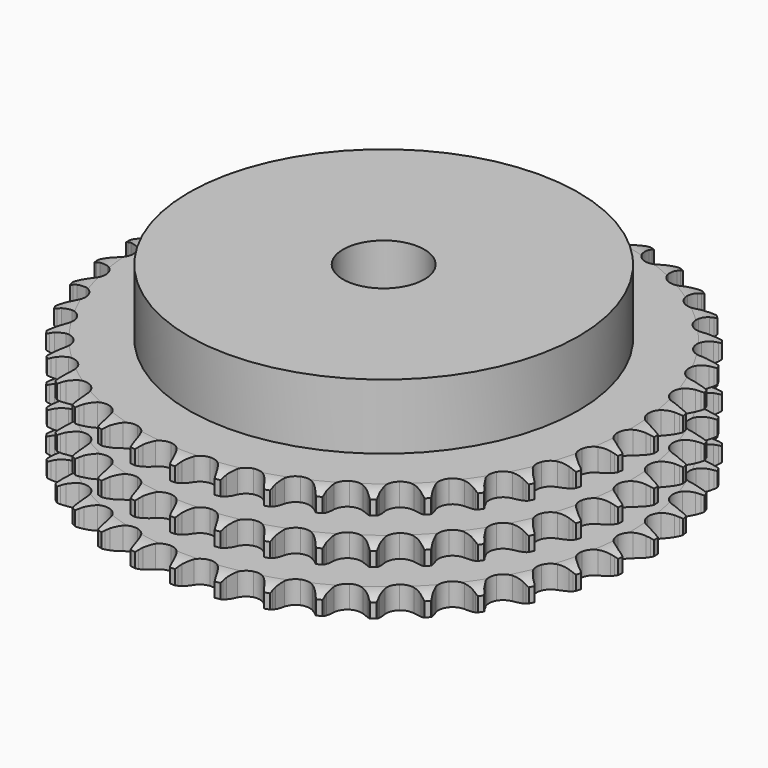
from build123d import *

# Parameters (mm, degrees)
PAD_DEPTH         = 34.9
SKETCH001_R       = 60
PAD001_DEPTH      = 55
SKETCH002_R       = 12.5
POCKET_DEPTH      = 0.001
POCKET_DEPTH_BACK = 55.001


with BuildPart() as part:
    # Sprocket → Pad (new body)
    with BuildSketch(Plane.XY):
        with BuildLine():
            ThreePointArc((-6.656622, 82.457062), (-5.929777, 81.440918), (-5.398329, 80.310249))
            Line((-5.398329, 80.310249), (-4.983377, 79.168588))
            ThreePointArc((-4.983377, 79.168588), (-4.32707, 77.702452), (-3.466416, 76.346144))
            ThreePointArc((-3.466416, 76.346144), (-1.9406, 75.061463), (0, 74.600386))
            ThreePointArc((0, 74.600386), (1.9406, 75.061463), (3.466416, 76.346144))
            ThreePointArc((3.466416, 76.346144), (4.32707, 77.702452), (4.983377, 79.168588))
            Line((4.983377, 79.168588), (5.398329, 80.310249))
            ThreePointArc((5.398329, 80.310249), (5.929777, 81.440918), (6.656622, 82.457062))
            ThreePointArc((6.656622, 82.457062), (7.211054, 81.337483), (7.554248, 80.136205))
            Line((7.554248, 80.136205), (7.780691, 78.942766))
            ThreePointArc((7.780691, 78.942766), (8.193314, 77.390336), (8.825256, 75.913534))
            ThreePointArc((8.825256, 75.913534), (10.125235, 74.400731), (11.966743, 73.63433))
            ThreePointArc((11.966743, 73.63433), (13.956175, 73.778143), (15.66831, 74.80143))
            Line((15.66831, 74.80143), (17.618378, 77.343986))
            ThreePointArc((17.618378, 77.343986), (17.900249, 77.88224), (18.211092, 78.404299))
            ThreePointArc((18.211092, 78.404299), (18.91703, 79.435077), (19.797464, 80.321468))
            ThreePointArc((19.797464, 80.321468), (20.165122, 79.12745), (20.311173, 77.886676))
            Line((20.311173, 77.886676), (20.343243, 76.672367))
            ThreePointArc((20.343243, 76.672367), (20.501496, 75.073852), (20.888358, 73.514803))
            ThreePointArc((20.888358, 73.514803), (21.928833, 71.813059), (23.623554, 70.761184))
            ThreePointArc((23.623554, 70.761184), (25.610293, 70.584007), (27.464403, 71.319397))
            Line((27.464403, 71.319397), (29.797073, 73.516215))
            ThreePointArc((29.797073, 73.516215), (30.161635, 74.002284), (30.552197, 74.467719))
            ThreePointArc((30.552197, 74.467719), (31.414342, 75.371908), (32.425561, 76.105589))
            ThreePointArc((32.425561, 76.105589), (32.596925, 74.868057), (32.54205, 73.619922))
            Line((32.54205, 73.619922), (32.378916, 72.416194))
            ThreePointArc((32.378916, 72.416194), (32.2787, 70.812994), (32.410463, 69.212078))
            ThreePointArc((32.410463, 69.212078), (33.164485, 67.365467), (34.668528, 66.055361))
            ThreePointArc((34.668528, 66.055361), (36.601117, 65.561783), (38.549182, 65.99023))
            Line((38.549182, 65.99023), (41.204039, 67.784413))
            ThreePointArc((41.204039, 67.784413), (41.641851, 68.205707), (42.102016, 68.602465))
            ThreePointArc((42.102016, 68.602465), (43.098039, 69.356647), (44.213854, 69.918616))
            ThreePointArc((44.213854, 69.918616), (44.184484, 68.669621), (43.930105, 67.446452))
            Line((43.930105, 67.446452), (43.575992, 66.28448))
            ThreePointArc((43.575992, 66.28448), (43.219902, 64.718117), (43.093154, 63.116796))
            ThreePointArc((43.093154, 63.116796), (43.541194, 61.173144), (44.815605, 59.638738))
            ThreePointArc((44.815605, 59.638738), (46.643992, 58.841543), (48.635557, 58.95195))
            Line((48.635557, 58.95195), (51.543842, 60.29703))
            ThreePointArc((51.543842, 60.29703), (52.043565, 60.642638), (52.561416, 60.960443))
            ThreePointArc((52.561416, 60.960443), (53.665519, 61.545085), (54.857031, 61.920787))
            ThreePointArc((54.857031, 61.920787), (54.627688, 60.692678), (54.180394, 59.526153))
            Line((54.180394, 59.526153), (53.644473, 58.436033))
            ThreePointArc((53.644473, 58.436033), (53.041732, 56.947074), (52.659755, 55.386822))
            ThreePointArc((52.659755, 55.386822), (52.79021, 53.396469), (53.801981, 51.677504))
            ThreePointArc((53.801981, 51.677504), (55.478812, 50.597338), (57.462297, 50.386846))
            Line((57.462297, 50.386846), (60.548686, 51.247985))
            ThreePointArc((60.548686, 51.247985), (61.097378, 51.508957), (61.659502, 51.739577))
            ThreePointArc((61.659502, 51.739577), (62.843091, 52.139538), (64.079439, 52.319243))
            ThreePointArc((64.079439, 52.319243), (63.656064, 51.143826), (63.027438, 50.064159))
            Line((63.027438, 50.064159), (62.32359, 49.074123))
            ThreePointArc((62.32359, 49.074123), (61.489808, 47.701133), (60.862496, 46.222358))
            ThreePointArc((60.862496, 46.222358), (60.671986, 44.236854), (61.394914, 42.377849))
            ThreePointArc((61.394914, 42.377849), (62.87676, 41.042688), (64.800794, 40.516748))
            Line((64.800794, 40.516748), (67.985352, 40.871645))
            ThreePointArc((67.985352, 40.871645), (68.568801, 41.041221), (69.160639, 41.178683))
            ThreePointArc((69.160639, 41.178683), (70.393059, 41.383604), (71.642224, 41.362657))
            ThreePointArc((71.642224, 41.362657), (71.035782, 40.270376), (70.242105, 39.305529))
            Line((70.242105, 39.305529), (69.388559, 38.441219))
            ThreePointArc((69.388559, 38.441219), (68.345331, 37.219757), (67.48893, 35.86076))
            ThreePointArc((67.48893, 35.86076), (66.98239, 33.931527), (67.397751, 31.98063))
            ThreePointArc((67.397751, 31.98063), (68.646232, 30.425055), (70.460984, 29.597289))
            Line((70.460984, 29.597289), (73.661232, 29.436751))
            ThreePointArc((73.661232, 29.436751), (74.264328, 29.510539), (74.870553, 29.551283))
            ThreePointArc((74.870553, 29.551283), (76.119885, 29.555856), (77.349513, 29.334801))
            ThreePointArc((77.349513, 29.334801), (76.575709, 28.353944), (75.637539, 27.528907))
            Line((75.637539, 27.528907), (74.6564, 26.812708))
            ThreePointArc((74.6564, 26.812708), (73.430746, 25.774408), (72.367437, 24.570386))
            ThreePointArc((72.367437, 24.570386), (71.557986, 22.747392), (71.655021, 20.75513))
            ThreePointArc((71.655021, 20.75513), (72.637804, 19.019428), (74.296272, 17.911275))
            Line((74.296272, 17.911275), (77.429325, 17.23946))
            ThreePointArc((77.429325, 17.23946), (78.036447, 17.215549), (78.641358, 17.158521))
            ThreePointArc((78.641358, 17.158521), (79.875245, 16.962627), (81.05349, 16.547188))
            ThreePointArc((81.05349, 16.547188), (80.132367, 15.703161), (79.074, 15.0393))
            Line((79.074, 15.0393), (77.99068, 14.489762))
            ThreePointArc((77.99068, 14.489762), (76.614343, 13.661517), (75.371665, 12.643653))
            ThreePointArc((75.371665, 12.643653), (74.280267, 10.974111), (74.056465, 8.992083))
            ThreePointArc((74.056465, 8.992083), (74.748094, 7.121208), (76.207325, 5.761368))
            Line((76.207325, 5.761368), (79.19204, 4.595676))
            ThreePointArc((79.19204, 4.595676), (79.787464, 4.474686), (80.375393, 4.321362))
            ThreePointArc((80.375393, 4.321362), (81.561878, 3.930075), (82.658224, 3.331013))
            ThreePointArc((82.658224, 3.331013), (81.613638, 2.645673), (80.462486, 2.160183))
            Line((80.462486, 2.160183), (79.305043, 1.791538))
            ThreePointArc((79.305043, 1.791538), (77.813669, 1.194799), (76.423806, 0.389456))
            ThreePointArc((76.423806, 0.389456), (75.078728, -1.083394), (74.539884, -3.003855))
            ThreePointArc((74.539884, -3.003855), (74.922448, -4.961447), (76.144649, -6.537754))
            Line((76.144649, -6.537754), (78.903722, -8.167133))
            ThreePointArc((78.903722, -8.167133), (79.472028, -8.382069), (80.027748, -8.627719))
            ThreePointArc((80.027748, -8.627719), (81.136102, -9.204264), (82.122154, -9.971435))
            ThreePointArc((82.122154, -9.971435), (80.981158, -10.480336), (79.767035, -10.774881))
            Line((79.767035, -10.774881), (78.565446, -10.953085))
            ThreePointArc((78.565446, -10.953085), (76.997661, -11.302864), (75.496611, -11.874828))
            ThreePointArc((75.496611, -11.874828), (73.93269, -13.112839), (73.09276, -14.921994))
            ThreePointArc((73.09276, -14.921994), (73.15635, -16.915603), (74.109866, -18.667553))
            Line((74.109866, -18.667553), (76.571839, -20.718418))
            ThreePointArc((76.571839, -20.718418), (77.098307, -21.021734), (77.607426, -21.353346))
            ThreePointArc((77.607426, -21.353346), (78.608943, -22.100217), (79.459163, -23.015627))
            ThreePointArc((79.459163, -23.015627), (78.25131, -23.334909), (77.005661, -23.430881))
            Line((77.005661, -23.430881), (75.791046, -23.41403))
            ThreePointArc((75.791046, -23.41403), (74.187455, -23.507788), (72.614093, -23.83156))
            ThreePointArc((72.614093, -23.83156), (70.871833, -24.802669), (69.752572, -26.453661))
            ThreePointArc((69.752572, -26.453661), (69.495541, -28.431654), (70.155677, -30.313872))
            Line((70.155677, -30.313872), (72.256786, -32.733107))
            ThreePointArc((72.256786, -32.733107), (72.727781, -33.116946), (73.177113, -33.525932))
            ThreePointArc((73.177113, -33.525932), (74.045853, -34.423786), (74.738222, -35.463727))
            ThreePointArc((74.738222, -35.463727), (73.494793, -35.585121), (72.24988, -35.480034))
            Line((72.24988, -35.480034), (71.053697, -35.268563))
            ThreePointArc((71.053697, -35.268563), (69.455832, -35.103873), (67.850909, -35.171068))
            ThreePointArc((67.850909, -35.171068), (65.975434, -35.850122), (64.605829, -37.300193))
            ThreePointArc((64.605829, -37.300193), (64.034834, -39.211341), (64.384492, -41.175077))
            Line((64.384492, -41.175077), (66.07032, -43.900025))
            ThreePointArc((66.07032, -43.900025), (66.473644, -44.354447), (66.851551, -44.830214))
            ThreePointArc((66.851551, -44.830214), (67.565016, -45.855797), (68.081599, -46.993335))
            ThreePointArc((68.081599, -46.993335), (66.8348, -46.913697), (65.622865, -46.610273))
            Line((65.622865, -46.610273), (64.476095, -46.209659))
            ThreePointArc((64.476095, -46.209659), (62.92534, -45.790786), (61.330421, -45.599663))
            ThreePointArc((61.330421, -45.599663), (59.370305, -45.969077), (57.785829, -47.180669))
            ThreePointArc((57.785829, -47.180669), (56.915658, -48.975474), (56.945783, -50.969869))
            Line((56.945783, -50.969869), (58.172667, -53.929956))
            ThreePointArc((58.172667, -53.929956), (58.497874, -54.443191), (58.794569, -54.973418))
            ThreePointArc((58.794569, -54.973418), (59.334279, -56.100167), (59.661699, -57.30584))
            ThreePointArc((59.661699, -57.30584), (58.44382, -57.027233), (57.296253, -56.53333))
            Line((57.296253, -56.53333), (56.228596, -55.953949))
            ThreePointArc((56.228596, -55.953949), (54.765115, -55.291742), (53.221508, -54.84725))
            ThreePointArc((53.221508, -54.84725), (51.227517, -54.897456), (49.469206, -55.83919))
            ThreePointArc((49.469206, -55.83919), (48.322397, -57.471168), (48.032208, -59.444569))
            Line((48.032208, -59.444569), (48.768373, -62.56313))
            ThreePointArc((48.768373, -62.56313), (49.00704, -63.121884), (49.214838, -63.692839))
            ThreePointArc((49.214838, -63.692839), (49.566816, -64.891573), (49.696593, -66.134154))
            ThreePointArc((49.696593, -66.134154), (48.539177, -65.663793), (47.485698, -64.992203))
            Line((47.485698, -64.992203), (46.524806, -64.249061))
            ThreePointArc((46.524806, -64.249061), (45.186502, -63.360671), (43.734186, -62.674323))
            ThreePointArc((43.734186, -62.674323), (41.757963, -62.40402), (39.871357, -63.051506))
            ThreePointArc((39.871357, -63.051506), (38.477611, -64.478389), (37.874624, -66.379685))
            Line((37.874624, -66.379685), (38.101004, -69.575951))
            ThreePointArc((38.101004, -69.575951), (38.246949, -70.165755), (38.360469, -70.762648))
            ThreePointArc((38.360469, -70.762648), (38.515599, -72.00232), (38.444371, -73.249628))
            ThreePointArc((38.444371, -73.249628), (37.377394, -72.599696), (36.445288, -71.767813))
            Line((36.445288, -71.767813), (35.616048, -70.880156))
            ThreePointArc((35.616048, -70.880156), (34.437582, -69.788591), (33.114171, -68.878164))
            ThreePointArc((33.114171, -68.878164), (31.206899, -68.294352), (29.24086, -68.630821))
            ThreePointArc((29.24086, -68.630821), (27.636275, -69.815653), (26.736108, -71.595603))
            Line((26.736108, -71.595603), (26.446839, -74.786791))
            ThreePointArc((26.446839, -74.786791), (26.496283, -75.392369), (26.512584, -75.999743))
            ThreePointArc((26.512584, -75.999743), (26.466847, -77.248246), (26.196459, -78.467976))
            ThreePointArc((26.196459, -78.467976), (25.247556, -77.655305), (24.460964, -76.684674))
            Line((24.460964, -76.684674), (23.784853, -75.675493))
            ThreePointArc((23.784853, -75.675493), (22.796747, -74.409024), (21.636517, -73.298096))
            ThreePointArc((21.636517, -73.298096), (19.847594, -72.415897), (17.853041, -72.432634))
            ThreePointArc((17.853041, -72.432634), (16.079174, -73.344729), (14.90514, -74.957232))
            Line((14.90514, -74.957232), (14.107714, -78.060693))
            ThreePointArc((14.107714, -78.060693), (14.059376, -78.66636), (13.978037, -79.268483))
            ThreePointArc((13.978037, -79.268483), (13.732619, -80.493482), (13.270074, -81.654044))
            ThreePointArc((13.270074, -81.654044), (12.46382, -80.699682), (11.843114, -79.615442))
            Line((11.843114, -79.615442), (11.337642, -78.510874))
            ThreePointArc((11.337642, -78.510874), (10.565489, -77.102302), (9.598488, -75.819647))
            ThreePointArc((9.598488, -75.819647), (7.974246, -74.661908), (6.002837, -74.358479))
            ThreePointArc((6.002837, -74.358479), (4.105631, -74.974215), (2.688136, -76.377508))
            Line((2.688136, -76.377508), (1.403207, -79.312864))
            ThreePointArc((1.403207, -79.312864), (1.25834, -79.902934), (1.081466, -80.484212))
            ThreePointArc((1.081466, -80.484212), (0.642722, -81.653979), (0, -82.725315))
            ThreePointArc((0, -82.725315), (-0.642722, -81.653979), (-1.081466, -80.484212))
            Line((-1.081466, -80.484212), (-1.403207, -79.312864))
            ThreePointArc((-1.403207, -79.312864), (-1.939411, -77.798671), (-2.688136, -76.377508))
            ThreePointArc((-2.688136, -76.377508), (-4.105631, -74.974215), (-6.002837, -74.358479))
            ThreePointArc((-6.002837, -74.358479), (-7.974246, -74.661908), (-9.598488, -75.819647))
            Line((-9.598488, -75.819647), (-11.337642, -78.510874))
            ThreePointArc((-11.337642, -78.510874), (-11.575287, -79.070064), (-11.843114, -79.615442))
            ThreePointArc((-11.843114, -79.615442), (-12.46382, -80.699682), (-13.270074, -81.654044))
            ThreePointArc((-13.270074, -81.654044), (-13.732619, -80.493482), (-13.978037, -79.268483))
            Line((-13.978037, -79.268483), (-14.107714, -78.060693))
            ThreePointArc((-14.107714, -78.060693), (-14.39408, -76.480096), (-14.90514, -74.957232))
            ThreePointArc((-14.90514, -74.957232), (-16.079174, -73.344729), (-17.853041, -72.432634))
            ThreePointArc((-17.853041, -72.432634), (-19.847594, -72.415897), (-21.636517, -73.298096))
            Line((-21.636517, -73.298096), (-23.784853, -75.675493))
            ThreePointArc((-23.784853, -75.675493), (-24.109121, -76.18932), (-24.460964, -76.684674))
            ThreePointArc((-24.460964, -76.684674), (-25.247556, -77.655305), (-26.196459, -78.467976))
            ThreePointArc((-26.196459, -78.467976), (-26.466847, -77.248246), (-26.512584, -75.999743))
            Line((-26.512584, -75.999743), (-26.446839, -74.786791))
            ThreePointArc((-26.446839, -74.786791), (-26.475951, -73.180725), (-26.736108, -71.595603))
            ThreePointArc((-26.736108, -71.595603), (-27.636275, -69.815653), (-29.24086, -68.630821))
            ThreePointArc((-29.24086, -68.630821), (-31.206899, -68.294352), (-33.114171, -68.878164))
            Line((-33.114171, -68.878164), (-35.616048, -70.880156))
            ThreePointArc((-35.616048, -70.880156), (-36.01854, -71.335314), (-36.445288, -71.767813))
            ThreePointArc((-36.445288, -71.767813), (-37.377394, -72.599696), (-38.444371, -73.249628))
            ThreePointArc((-38.444371, -73.249628), (-38.515599, -72.00232), (-38.360469, -70.762648))
            Line((-38.360469, -70.762648), (-38.101004, -69.575951))
            ThreePointArc((-38.101004, -69.575951), (-37.872108, -67.986013), (-37.874624, -66.379685))
            ThreePointArc((-37.874624, -66.379685), (-38.477611, -64.478389), (-39.871357, -63.051506))
            ThreePointArc((-39.871357, -63.051506), (-41.757963, -62.40402), (-43.734186, -62.674323))
            Line((-43.734186, -62.674323), (-46.524806, -64.249061))
            ThreePointArc((-46.524806, -64.249061), (-46.995099, -64.63376), (-47.485698, -64.992203))
            ThreePointArc((-47.485698, -64.992203), (-48.539177, -65.663793), (-49.696593, -66.134154))
            ThreePointArc((-49.696593, -66.134154), (-49.566816, -64.891573), (-49.214838, -63.692839))
            Line((-49.214838, -63.692839), (-48.768373, -62.56313))
            ThreePointArc((-48.768373, -62.56313), (-48.287398, -61.030499), (-48.032208, -59.444569))
            ThreePointArc((-48.032208, -59.444569), (-48.322397, -57.471168), (-49.469206, -55.83919))
            ThreePointArc((-49.469206, -55.83919), (-51.227517, -54.897456), (-53.221508, -54.84725))
            Line((-53.221508, -54.84725), (-56.228596, -55.953949))
            ThreePointArc((-56.228596, -55.953949), (-56.754509, -56.258226), (-57.296253, -56.53333))
            ThreePointArc((-57.296253, -56.53333), (-58.44382, -57.027233), (-59.661699, -57.30584))
            ThreePointArc((-59.661699, -57.30584), (-59.334279, -56.100167), (-58.794569, -54.973418))
            Line((-58.794569, -54.973418), (-58.172667, -53.929956))
            ThreePointArc((-58.172667, -53.929956), (-57.452069, -52.494326), (-56.945783, -50.969869))
            ThreePointArc((-56.945783, -50.969869), (-56.915658, -48.975474), (-57.785829, -47.180669))
            ThreePointArc((-57.785829, -47.180669), (-59.370305, -45.969077), (-61.330421, -45.599663))
            Line((-61.330421, -45.599663), (-64.476095, -46.209659))
            ThreePointArc((-64.476095, -46.209659), (-65.044007, -46.425633), (-65.622865, -46.610273))
            ThreePointArc((-65.622865, -46.610273), (-66.8348, -46.913697), (-68.081599, -46.993335))
            ThreePointArc((-68.081599, -46.993335), (-67.565016, -45.855797), (-66.851551, -44.830214))
            Line((-66.851551, -44.830214), (-66.07032, -43.900025))
            ThreePointArc((-66.07032, -43.900025), (-65.128762, -42.598579), (-64.384492, -41.175077))
            ThreePointArc((-64.384492, -41.175077), (-64.034834, -39.211341), (-64.605829, -37.300193))
            ThreePointArc((-64.605829, -37.300193), (-65.975434, -35.850122), (-67.850909, -35.171068))
            Line((-67.850909, -35.171068), (-71.053697, -35.268563))
            ThreePointArc((-71.053697, -35.268563), (-71.648899, -35.390641), (-72.24988, -35.480034))
            ThreePointArc((-72.24988, -35.480034), (-73.494793, -35.585121), (-74.738222, -35.463727))
            ThreePointArc((-74.738222, -35.463727), (-74.045853, -34.423786), (-73.177113, -33.525932))
            Line((-73.177113, -33.525932), (-72.256786, -32.733107))
            ThreePointArc((-72.256786, -32.733107), (-71.118654, -31.59955), (-70.155677, -30.313872))
            ThreePointArc((-70.155677, -30.313872), (-69.495541, -28.431654), (-69.752572, -26.453661))
            ThreePointArc((-69.752572, -26.453661), (-70.871833, -24.802669), (-72.614093, -23.83156))
            Line((-72.614093, -23.83156), (-75.791046, -23.41403))
            ThreePointArc((-75.791046, -23.41403), (-76.398123, -23.43905), (-77.005661, -23.430881))
            ThreePointArc((-77.005661, -23.430881), (-78.25131, -23.334909), (-79.459163, -23.015627))
            ThreePointArc((-79.459163, -23.015627), (-78.608943, -22.100217), (-77.607426, -21.353346))
            Line((-77.607426, -21.353346), (-76.571839, -20.718418))
            ThreePointArc((-76.571839, -20.718418), (-75.266611, -19.78211), (-74.109866, -18.667553))
            ThreePointArc((-74.109866, -18.667553), (-73.15635, -16.915603), (-73.09276, -14.921994))
            ThreePointArc((-73.09276, -14.921994), (-73.93269, -13.112839), (-75.496611, -11.874828))
            Line((-75.496611, -11.874828), (-78.565446, -10.953085))
            ThreePointArc((-78.565446, -10.953085), (-79.168675, -10.880399), (-79.767035, -10.774881))
            ThreePointArc((-79.767035, -10.774881), (-80.981158, -10.480336), (-82.122154, -9.971435))
            ThreePointArc((-82.122154, -9.971435), (-81.136102, -9.204264), (-80.027748, -8.627719))
            Line((-80.027748, -8.627719), (-78.903722, -8.167133))
            ThreePointArc((-78.903722, -8.167133), (-77.465201, -7.452323), (-76.144649, -6.537754))
            ThreePointArc((-76.144649, -6.537754), (-74.922448, -4.961447), (-74.539884, -3.003855))
            ThreePointArc((-74.539884, -3.003855), (-75.078728, -1.083394), (-76.423806, 0.389456))
            Line((-76.423806, 0.389456), (-79.305043, 1.791538))
            ThreePointArc((-79.305043, 1.791538), (-79.888801, 1.960048), (-80.462486, 2.160183))
            ThreePointArc((-80.462486, 2.160183), (-81.613638, 2.645673), (-82.658224, 3.331013))
            ThreePointArc((-82.658224, 3.331013), (-81.561878, 3.930075), (-80.375393, 4.321362))
            Line((-80.375393, 4.321362), (-79.19204, 4.595676))
            ThreePointArc((-79.19204, 4.595676), (-77.657484, 5.070475), (-76.207325, 5.761368))
            ThreePointArc((-76.207325, 5.761368), (-74.748094, 7.121208), (-74.056465, 8.992083))
            ThreePointArc((-74.056465, 8.992083), (-74.280267, 10.974111), (-75.371665, 12.643653))
            Line((-75.371665, 12.643653), (-77.99068, 14.489762))
            ThreePointArc((-77.99068, 14.489762), (-78.539848, 14.74973), (-79.074, 15.0393))
            ThreePointArc((-79.074, 15.0393), (-80.132367, 15.703161), (-81.05349, 16.547188))
            ThreePointArc((-81.05349, 16.547188), (-79.875245, 16.962627), (-78.641358, 17.158521))
            Line((-78.641358, 17.158521), (-77.429325, 17.23946))
            ThreePointArc((-77.429325, 17.23946), (-75.838479, 17.46195), (-74.296272, 17.911275))
            ThreePointArc((-74.296272, 17.911275), (-72.637804, 19.019428), (-71.655021, 20.75513))
            ThreePointArc((-71.655021, 20.75513), (-71.557986, 22.747392), (-72.367437, 24.570386))
            Line((-72.367437, 24.570386), (-74.6564, 26.812708))
            ThreePointArc((-74.6564, 26.812708), (-75.156754, 27.157403), (-75.637539, 27.528907))
            ThreePointArc((-75.637539, 27.528907), (-76.575709, 28.353944), (-77.349513, 29.334801))
            ThreePointArc((-77.349513, 29.334801), (-76.119885, 29.555856), (-74.870553, 29.551283))
            Line((-74.870553, 29.551283), (-73.661232, 29.436751))
            ThreePointArc((-73.661232, 29.436751), (-72.055297, 29.40117), (-70.460984, 29.597289))
            ThreePointArc((-70.460984, 29.597289), (-68.646232, 30.425055), (-67.397751, 31.98063))
            ThreePointArc((-67.397751, 31.98063), (-66.98239, 33.931527), (-67.48893, 35.86076))
            Line((-67.48893, 35.86076), (-69.388559, 38.441219))
            ThreePointArc((-69.388559, 38.441219), (-69.82714, 38.861713), (-70.242105, 39.305529))
            ThreePointArc((-70.242105, 39.305529), (-71.035782, 40.270376), (-71.642224, 41.362657))
            ThreePointArc((-71.642224, 41.362657), (-70.393059, 41.383604), (-69.160639, 41.178683))
            Line((-69.160639, 41.178683), (-67.985352, 40.871645))
            ThreePointArc((-67.985352, 40.871645), (-66.40592, 40.578915), (-64.800794, 40.516748))
            ThreePointArc((-64.800794, 40.516748), (-62.87676, 41.042688), (-61.394914, 42.377849))
            ThreePointArc((-61.394914, 42.377849), (-60.671986, 44.236854), (-60.862496, 46.222358))
            Line((-60.862496, 46.222358), (-62.32359, 49.074123))
            ThreePointArc((-62.32359, 49.074123), (-62.68904, 49.559525), (-63.027438, 50.064159))
            ThreePointArc((-63.027438, 50.064159), (-63.656064, 51.143826), (-64.079439, 52.319243))
            ThreePointArc((-64.079439, 52.319243), (-62.843091, 52.139538), (-61.659502, 51.739577))
            Line((-61.659502, 51.739577), (-60.548686, 51.247985))
            ThreePointArc((-60.548686, 51.247985), (-59.036665, 50.705687), (-57.462297, 50.386846))
            ThreePointArc((-57.462297, 50.386846), (-55.478812, 50.597338), (-53.801981, 51.677504))
            ThreePointArc((-53.801981, 51.677504), (-52.79021, 53.396469), (-52.659755, 55.386822))
            Line((-52.659755, 55.386822), (-53.644473, 58.436033))
            ThreePointArc((-53.644473, 58.436033), (-53.927327, 58.973771), (-54.180394, 59.526153))
            ThreePointArc((-54.180394, 59.526153), (-54.627688, 60.692678), (-54.857031, 61.920787))
            ThreePointArc((-54.857031, 61.920787), (-53.665519, 61.545085), (-52.561416, 60.960443))
            Line((-52.561416, 60.960443), (-51.543842, 60.29703))
            ThreePointArc((-51.543842, 60.29703), (-50.138392, 59.519209), (-48.635557, 58.95195))
            ThreePointArc((-48.635557, 58.95195), (-46.643992, 58.841543), (-44.815605, 59.638738))
            ThreePointArc((-44.815605, 59.638738), (-43.541194, 61.173144), (-43.093154, 63.116796))
            Line((-43.093154, 63.116796), (-43.575992, 66.28448))
            ThreePointArc((-43.575992, 66.28448), (-43.768924, 66.860628), (-43.930105, 67.446452))
            ThreePointArc((-43.930105, 67.446452), (-44.184484, 68.669621), (-44.213854, 69.918616))
            ThreePointArc((-44.213854, 69.918616), (-43.098039, 69.356647), (-42.102016, 68.602465))
            Line((-42.102016, 68.602465), (-41.204039, 67.784413))
            ThreePointArc((-41.204039, 67.784413), (-39.94156, 66.791214), (-38.549182, 65.99023))
            ThreePointArc((-38.549182, 65.99023), (-36.601117, 65.561783), (-34.668528, 66.055361))
            ThreePointArc((-34.668528, 66.055361), (-33.164485, 67.365467), (-32.410463, 69.212078))
            Line((-32.410463, 69.212078), (-32.378916, 72.416194))
            ThreePointArc((-32.378916, 72.416194), (-32.476929, 73.015829), (-32.54205, 73.619922))
            ThreePointArc((-32.54205, 73.619922), (-32.596925, 74.868057), (-32.425561, 76.105589))
            ThreePointArc((-32.425561, 76.105589), (-31.414342, 75.371908), (-30.552197, 74.467719))
            Line((-30.552197, 74.467719), (-29.797073, 73.516215))
            ThreePointArc((-29.797073, 73.516215), (-28.710263, 72.333363), (-27.464403, 71.319397))
            ThreePointArc((-27.464403, 71.319397), (-25.610293, 70.584007), (-23.623554, 70.761184))
            ThreePointArc((-23.623554, 70.761184), (-21.928833, 71.813059), (-20.888358, 73.514803))
            Line((-20.888358, 73.514803), (-20.343243, 76.672367))
            ThreePointArc((-20.343243, 76.672367), (-20.343798, 77.279959), (-20.311173, 77.886676))
            ThreePointArc((-20.311173, 77.886676), (-20.165122, 79.12745), (-19.797464, 80.321468))
            ThreePointArc((-19.797464, 80.321468), (-18.91703, 79.435077), (-18.211092, 78.404299))
            Line((-18.211092, 78.404299), (-17.618378, 77.343986))
            ThreePointArc((-17.618378, 77.343986), (-16.735386, 76.002115), (-15.66831, 74.80143))
            ThreePointArc((-15.66831, 74.80143), (-13.956175, 73.778143), (-11.966743, 73.63433))
            ThreePointArc((-11.966743, 73.63433), (-10.125235, 74.400731), (-8.825256, 75.913534))
            Line((-8.825256, 75.913534), (-7.780691, 78.942766))
            ThreePointArc((-7.780691, 78.942766), (-7.683774, 79.542579), (-7.554248, 80.136205))
            ThreePointArc((-7.554248, 80.136205), (-7.211054, 81.337483), (-6.656622, 82.457062))
        make_face()
    extrude(amount=PAD_DEPTH)

    # Sketch → Groove (revolve, cut)
    with BuildSketch(Plane.XZ):
        with BuildLine():
            ThreePointArc((75.683431, 0), (78.59032, 0.329167), (81.35, 1.3))
            Line((81.35, 1.3), (81.35, 5.7))
            ThreePointArc((81.35, 5.7), (78.59032, 6.670833), (75.683431, 7))
            Line((60, 7), (75.683431, 7))
            Line((60, 7), (60, 13.95))
            Line((60, 13.95), (75.683431, 13.95))
            ThreePointArc((75.683431, 13.95), (78.59032, 14.279167), (81.35, 15.25))
            Line((81.35, 19.65), (81.35, 15.25))
            ThreePointArc((81.35, 19.65), (78.59032, 20.620833), (75.683431, 20.95))
            Line((60, 20.95), (75.683431, 20.95))
            Line((60, 27.9), (60, 20.95))
            Line((75.683431, 27.9), (60, 27.9))
            ThreePointArc((75.683431, 27.9), (78.59032, 28.229167), (81.35, 29.2))
            Line((81.35, 29.2), (81.35, 33.6))
            ThreePointArc((81.35, 33.6), (78.59032, 34.570833), (75.683431, 34.9))
            Line((75.683431, 34.9), (91.35, 34.9))
            Line((91.35, 34.9), (91.35, 0))
            Line((75.683431, 0), (91.35, 0))
        make_face()
    revolve(axis=Axis((0, 0, 0), (0, 0, 1)), mode=Mode.SUBTRACT)

    # Sketch001 → Pad001 (join)
    with BuildSketch(Plane.XY):
        Circle(SKETCH001_R)
    extrude(amount=PAD001_DEPTH)

    # Sketch002 → Pocket (cut, two sides)
    with BuildSketch(Plane.XY) as pocket_sk:
        Circle(SKETCH002_R)
    extrude(amount=-POCKET_DEPTH, mode=Mode.SUBTRACT)
    extrude(pocket_sk.sketch, amount=POCKET_DEPTH_BACK, mode=Mode.SUBTRACT)


solid = part.part
